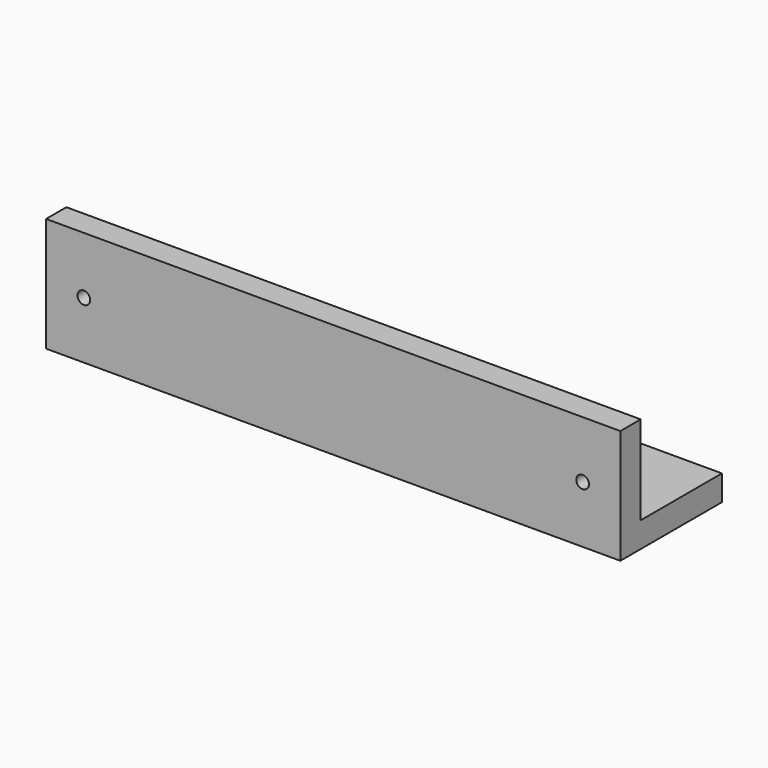
from build123d import *

# Parameters (mm, degrees)
F0_W     = 45.25
F0_H     = 10
F1_DEPTH = 2
F2_W     = 45.25
F2_H     = 2
F3_DEPTH = 7
F4_R     = 0.5
F5_DEPTH = 25
F6_DEPTH = 25
F7_W     = 2.616208
F7_H     = 1.183311
F8_DEPTH = 3


with BuildPart() as f1:
    # F0 (on Top) → F1 (new body)
    with BuildSketch(Plane.XY):
        with Locations((22.625, 5)):
            Rectangle(F0_W, F0_H)
    extrude(amount=F1_DEPTH)

    # F2 (on face) → F3 (join)
    with BuildSketch(Plane.XY.offset(2)):
        with Locations((22.625, 1)):
            Rectangle(F2_W, F2_H)
    extrude(amount=F3_DEPTH)

    # F4 (on face) → F5 (cut)
    with BuildSketch(Plane.XZ):
        with Locations((2.975, 4.5)):
            Circle(F4_R)
    extrude(amount=-F5_DEPTH, mode=Mode.SUBTRACT)

    # F4 (on face) → F6 (cut)
    with BuildSketch(Plane.XZ):
        with Locations((42.275, 4.5)):
            Circle(F4_R)
    extrude(amount=-F6_DEPTH, mode=Mode.SUBTRACT)

    # F7 (on face) → F8 (cut)
    with BuildSketch(Plane.XY.offset(2)):
        with Locations((30.246938, 2.591655)):
            Rectangle(F7_W, F7_H)
    extrude(amount=-F8_DEPTH, mode=Mode.SUBTRACT)


solid = f1.part
